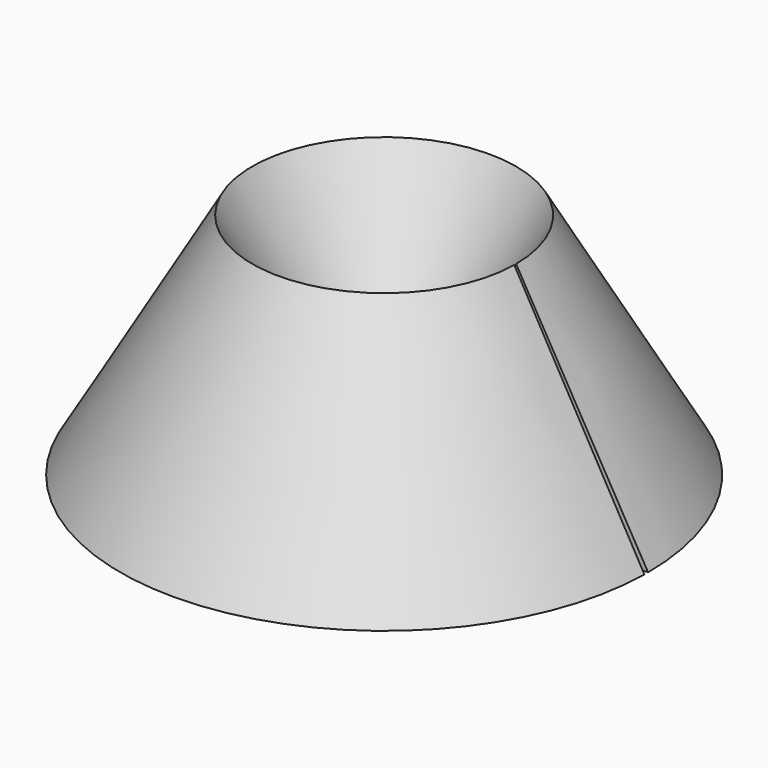
from build123d import *

# Parameters (mm, degrees)
F1_ANGLE = 359


with BuildPart() as f1:
    # F0 (on Front) → F1 (revolve)
    with BuildSketch(Plane.XZ):
        Polygon((12.7, 21.997045), (0, 0), (25.4, 0), align=None)
    revolve(axis=Axis((0, 0, 23.984039), (0, 0, 1)), revolution_arc=F1_ANGLE)


solid = f1.part
